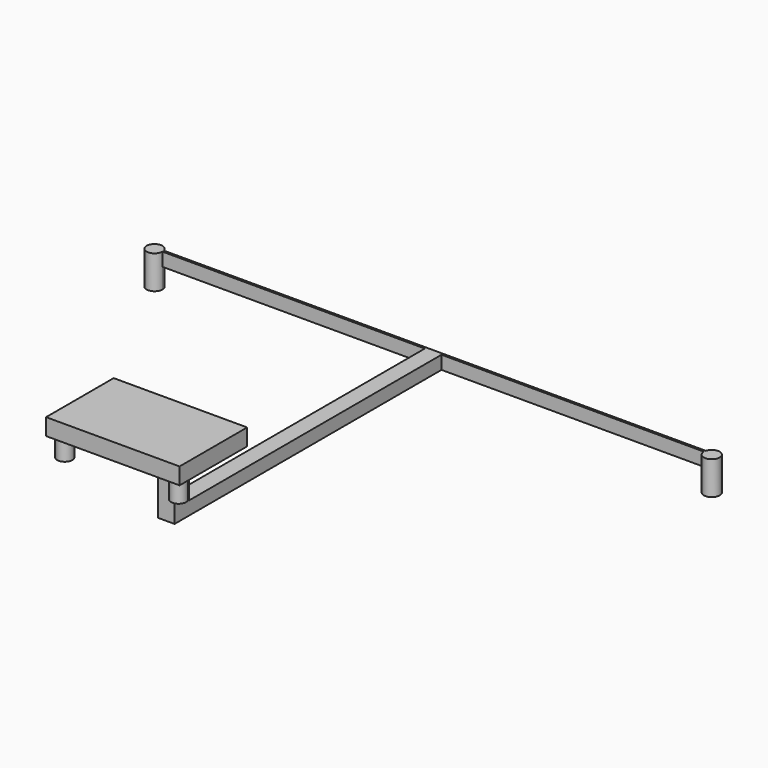
from build123d import *

# Parameters (mm, degrees)
F1_DEPTH  = 25.4
F3_DEPTH  = 15.24
F5_DEPTH  = 254
F6_W      = 12.7
F6_H      = 13.51927
F7_DEPTH  = 50.8
F9_DEPTH  = 12.7
F11_DEPTH = 50.8
F12_R     = 5.715
F13_DEPTH = 15.24


with BuildPart() as f1:
    # F0 (on Top) → F1 (new body)
    with BuildSketch(Plane.XY):
        with BuildLine():
            Line((-86.490609, -5.174935), (-88.820125, -5.174935))
            ThreePointArc((-88.820125, -5.174935), (-100.623355, -7.544352), (-88.610892, -6.749934))
            Line((-88.610892, -6.749934), (323.504108, -6.749934))
            ThreePointArc((323.504108, -6.749934), (335.516571, -7.544352), (323.713342, -5.174935))
            Line((323.713342, -5.174935), (-86.490609, -5.174935))
        make_face()
    extrude(amount=F1_DEPTH)

    # F2 (on face) → F3 (cut)
    with BuildSketch(Plane(origin=(0, 0, 0), x_dir=(1, 0, 0), z_dir=(0, 0, -1))):
        Polygon((323.504108, 5.174935), (323.504108, 6.749934), (-88.610892, 6.749934), (-88.820125, 5.174935), align=None)
    extrude(amount=-F3_DEPTH, mode=Mode.SUBTRACT)

    # F4 (on face) → F5 (join)
    with BuildSketch(Plane.XZ.offset(6.749934)):
        Polygon((123.796608, 25.4), (117.446608, 25.4), (111.096608, 25.4), (111.096608, 15.24), (123.796608, 15.24), align=None)
    extrude(amount=F5_DEPTH)

    # F6 (on face) → F7 (join)
    with BuildSketch(Plane.XY.offset(25.4)):
        with Locations((117.446608, -253.990299)):
            Rectangle(F6_W, F6_H)
    extrude(amount=F7_DEPTH)

    # F8 (on face) → F9 (join)
    with BuildSketch(Plane.XY.offset(76.2)):
        Polygon((168.246608, -247.230664), (111.096608, -247.230664), (66.646608, -247.230664), (66.646608, -260.749934), (168.246608, -260.749934), align=None)
    extrude(amount=F9_DEPTH)

    # F10 (on face) → F11 (join)
    with BuildSketch(Plane.XZ.offset(260.749934)):
        Polygon((66.646608, 88.9), (66.646608, 76.2), (111.096608, 76.2), (123.796608, 76.2), (168.246608, 76.2), (168.246608, 88.9), align=None)
    extrude(amount=F11_DEPTH)

    # F12 (on face) → F13 (join)
    with BuildSketch(Plane(origin=(0, 0, 76.2), x_dir=(1, 0, 0), z_dir=(0, 0, -1))):
        with Locations((74.153578, 303.118765)):
            Circle(F12_R)
        with Locations((160.739638, 303.118765)):
            Circle(F12_R)
    extrude(amount=F13_DEPTH)


solid = f1.part
